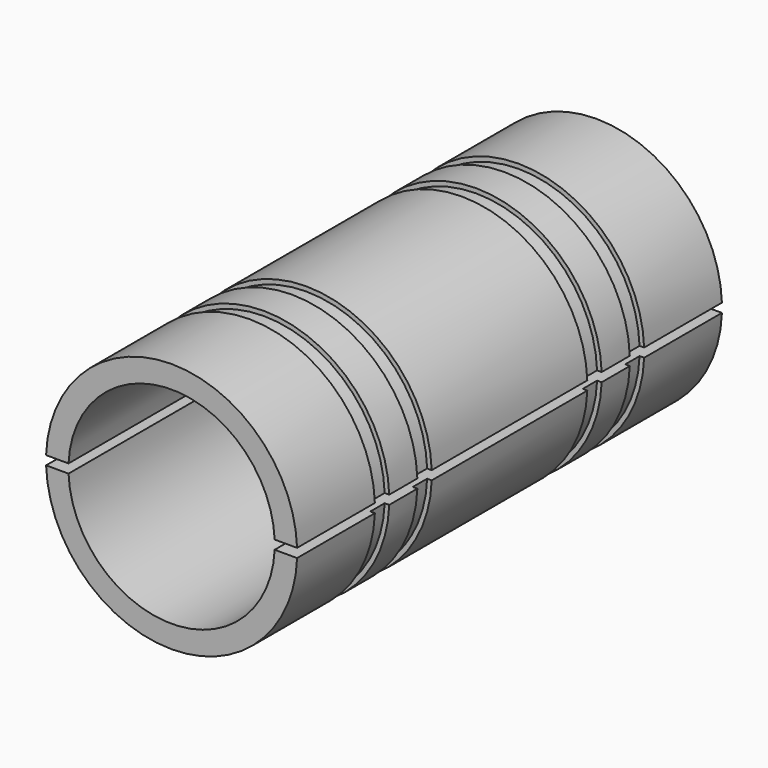
from build123d import *

# Parameters (mm, degrees)
F1_DEPTH = 93.98
F2_W     = 3.175
F2_H     = 6.35


with BuildPart() as f1:
    # F0 (on Front) → F1 (new body, symmetric)
    with BuildSketch(Plane.XZ):
        with BuildLine():
            ThreePointArc((36.477973, -1.5875), (0, -36.5125), (-36.477973, -1.5875))
            Line((-36.477973, -1.5875), (-44.421643, -1.5875))
            ThreePointArc((-44.421643, -1.5875), (0, -44.45), (44.421643, -1.5875))
            Line((44.421643, -1.5875), (36.477973, -1.5875))
        make_face()
        with BuildLine():
            Line((36.477973, 1.5875), (44.421643, 1.5875))
            ThreePointArc((44.421643, 1.5875), (0, 44.45), (-44.421643, 1.5875))
            Line((-44.421643, 1.5875), (-36.477973, 1.5875))
            ThreePointArc((-36.477973, 1.5875), (0, 36.5125), (36.477973, 1.5875))
        make_face()
    extrude(amount=F1_DEPTH, both=True)

    # F2 (on Top) → F3 (revolve, cut)
    with BuildSketch(Plane.XY):
        with Locations((-44.421643, 56.388)):
            Rectangle(F2_W, F2_H)
        with Locations((-44.421643, 37.592)):
            Rectangle(F2_W, F2_H)
        with Locations((-44.421643, -37.592)):
            Rectangle(F2_W, F2_H)
        with Locations((-44.421643, -56.388)):
            Rectangle(F2_W, F2_H)
    revolve(axis=Axis((0, 23.495, 0), (0, 1, 0)), mode=Mode.SUBTRACT)


solid = f1.part
